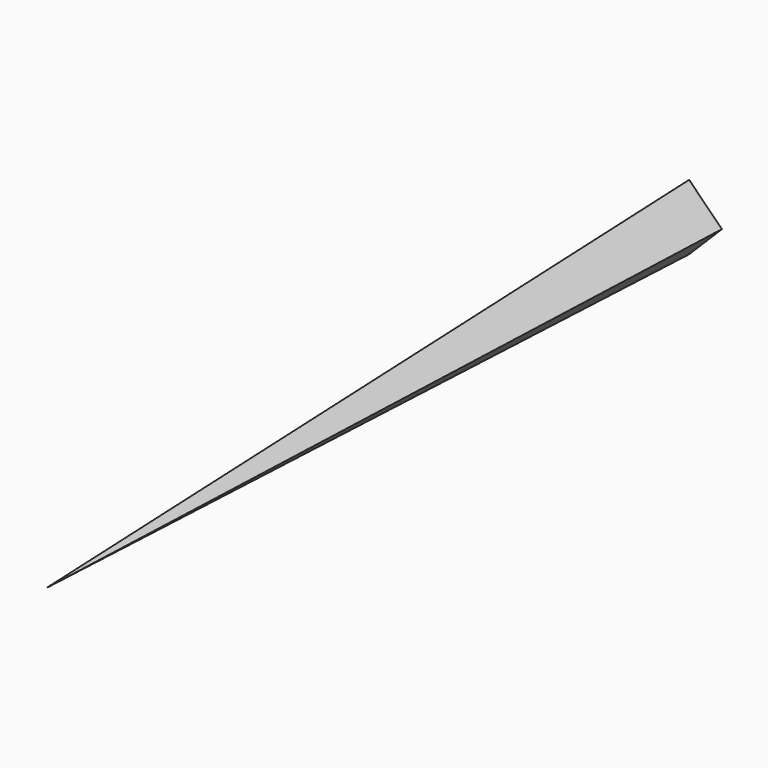
from build123d import *


with BuildPart() as f3:
    # F0 (on Front) → F3 section 0
    with BuildSketch(Plane.XZ, mode=Mode.PRIVATE) as f3_s0:
        Polygon((4.159836, 0), (0, 4.159836), (-4.159836, 0), (0, -4.159836), align=None)
    loft([Vertex(0, -102, 0), f3_s0.sketch])


solid = f3.part
